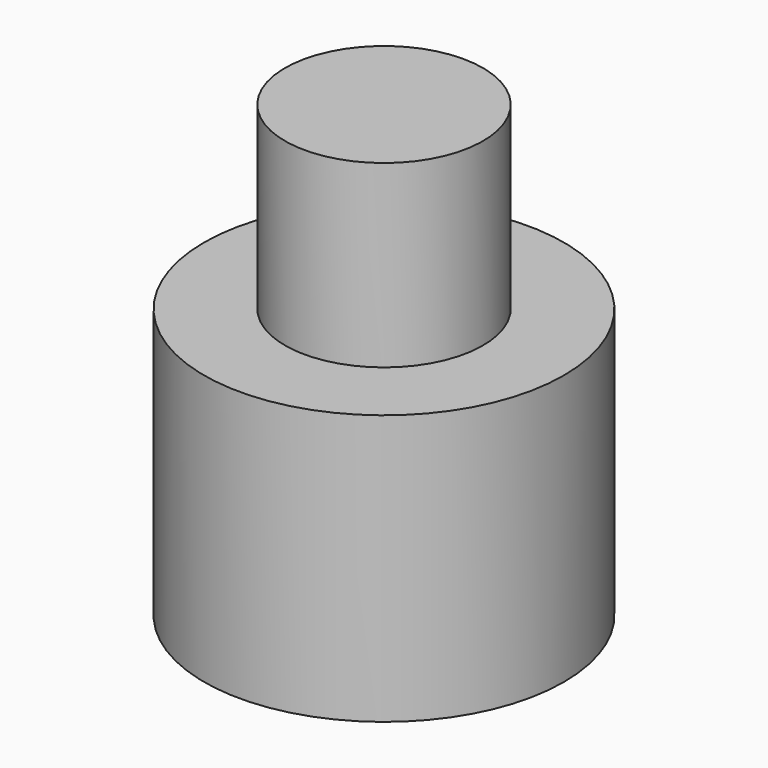
from build123d import *

# Parameters (mm, degrees)
CYLINDER003_R           = 10
CYLINDER003_DEPTH       = 15
CYLINDER004_R           = 5.5
CYLINDER004_DEPTH       = 10
CYLINDER005_R           = 5.5
CYLINDER005_DEPTH       = 11
BODY006_PLACEMENT_ANGLE = 90


with BuildPart() as part:
    # Cylinder003 → Cylinder003 (join)
    with BuildSketch(Plane(origin=(10, 0, -127), x_dir=(0, 1, 0), z_dir=(0, 0, 1))):
        Circle(CYLINDER003_R)
    extrude(amount=CYLINDER003_DEPTH)

    # Cylinder004 → Cylinder004 (join)
    with BuildSketch(Plane(origin=(10, 0, -112), x_dir=(1, 0, 0), z_dir=(0, 0, 1))):
        Circle(CYLINDER004_R)
    extrude(amount=CYLINDER004_DEPTH)

    # Cylinder005 → Cylinder005 (cut)
    with BuildSketch(Plane(origin=(10, 0, -127), x_dir=(1, 0, 0), z_dir=(0, 0, 1))):
        Circle(CYLINDER005_R)
    extrude(amount=CYLINDER005_DEPTH, mode=Mode.SUBTRACT)


with BuildPart() as part_1:
    # Body006 placement: moved
    add(part.part.moved(Location((10, 0, -1))).rotate(Axis((10, 0, -1), (0, 0, 1)), BODY006_PLACEMENT_ANGLE))


solid = part_1.part
